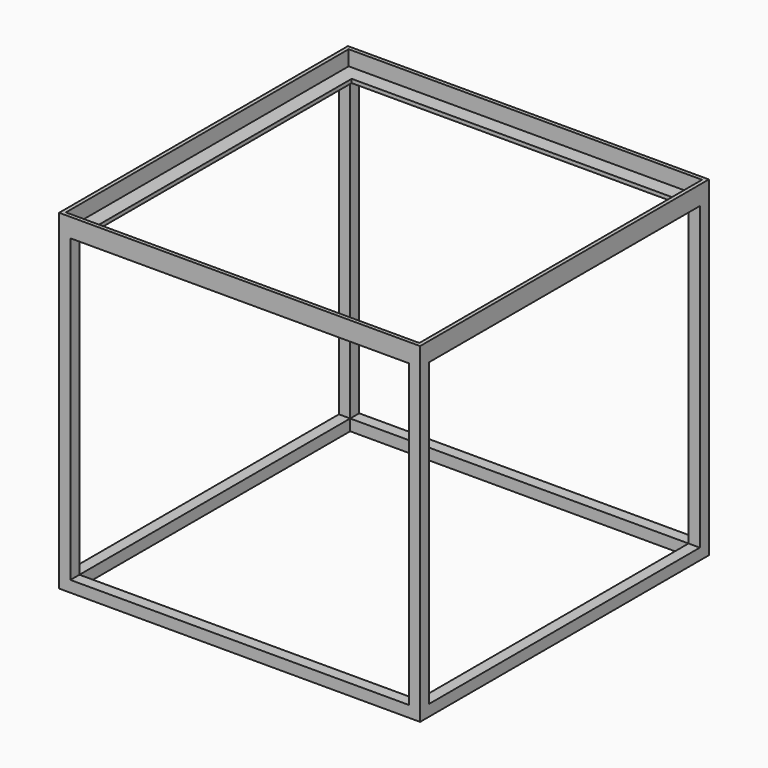
from build123d import *

# Parameters (mm, degrees)
F0_W     = 609.6
F0_H     = 558.8
F0_W_2   = 571.5
F0_H_2   = 508
F1_DEPTH = 609.6
F2_W     = 571.5
F2_H     = 508
F3_DEPTH = 609.601
F4_W     = 596.9
F4_H     = 596.9
F5_DEPTH = 25.4
F6_W     = 546.1
F6_H     = 546.1
F7_DEPTH = 6.35
F8_W     = 571.5
F8_H     = 571.5
F9_DEPTH = 19.05


with BuildPart() as f1:
    # F0 (on Front) → F1 (new body)
    with BuildSketch(Plane.XZ):
        with Locations((304.8, 279.4)):
            Rectangle(F0_W, F0_H)
        with Locations((304.8, 273.05)):
            Rectangle(F0_W_2, F0_H_2, mode=Mode.SUBTRACT)
    extrude(amount=F1_DEPTH)

    # F2 (on face) → F3 (cut, through all)
    with BuildSketch(Plane.YZ.offset(609.6)):
        with Locations((-304.8, 273.05)):
            Rectangle(F2_W, F2_H)
    extrude(amount=-F3_DEPTH, mode=Mode.SUBTRACT)

    # F4 (on face) → F5 (cut)
    with BuildSketch(Plane.XY.offset(558.8)):
        with Locations((304.8, -304.8)):
            Rectangle(F4_W, F4_H)
    extrude(amount=-F5_DEPTH, mode=Mode.SUBTRACT)

    # F6 (on face) → F7 (cut, through all)
    with BuildSketch(Plane.XY.offset(533.4)):
        with Locations((304.8, -304.8)):
            Rectangle(F6_W, F6_H)
    extrude(amount=-F7_DEPTH, mode=Mode.SUBTRACT)

    # F8 (on face) → F9 (cut, through all)
    with BuildSketch(Plane.XY.offset(19.05)):
        with Locations((304.8, -304.8)):
            Rectangle(F8_W, F8_H)
    extrude(amount=-F9_DEPTH, mode=Mode.SUBTRACT)


solid = f1.part
